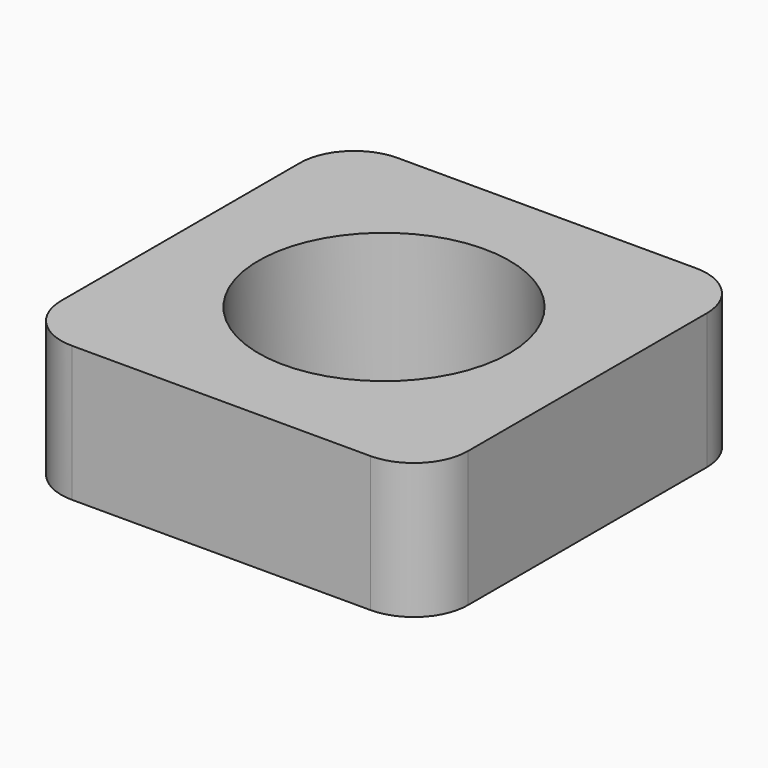
from build123d import *

# Parameters (mm, degrees)
F0_W     = 150
F0_H     = 150
F1_DEPTH = 50
F2_R     = 46.248065
F3_DEPTH = 50
F4_R     = 20
F5_R     = 20
F6_R     = 20


with BuildPart() as f1:
    # F0 (on Top) → F1 (new body)
    with BuildSketch(Plane.XY):
        Rectangle(F0_W, F0_H)
    extrude(amount=F1_DEPTH)

    # F2 (on face) → F3 (cut)
    with BuildSketch(Plane(origin=(0, 0, 0), x_dir=(1, 0, 0), z_dir=(0, 0, -1))):
        Circle(F2_R)
    extrude(amount=-F3_DEPTH, mode=Mode.SUBTRACT)

    # F4
    f4_edges = [f1.edges().sort_by_distance(p)[0] for p in [
        (75, -75, 25),
        (75, 75, 25),
    ]]
    fillet(f4_edges, radius=F4_R)

    # F5
    f5_edges = [f1.edges().sort_by_distance(p)[0] for p in [
        (-75, -75, 25),
    ]]
    fillet(f5_edges, radius=F5_R)

    # F6
    f6_edges = [f1.edges().sort_by_distance(p)[0] for p in [
        (-75, 75, 25),
    ]]
    fillet(f6_edges, radius=F6_R)


solid = f1.part
